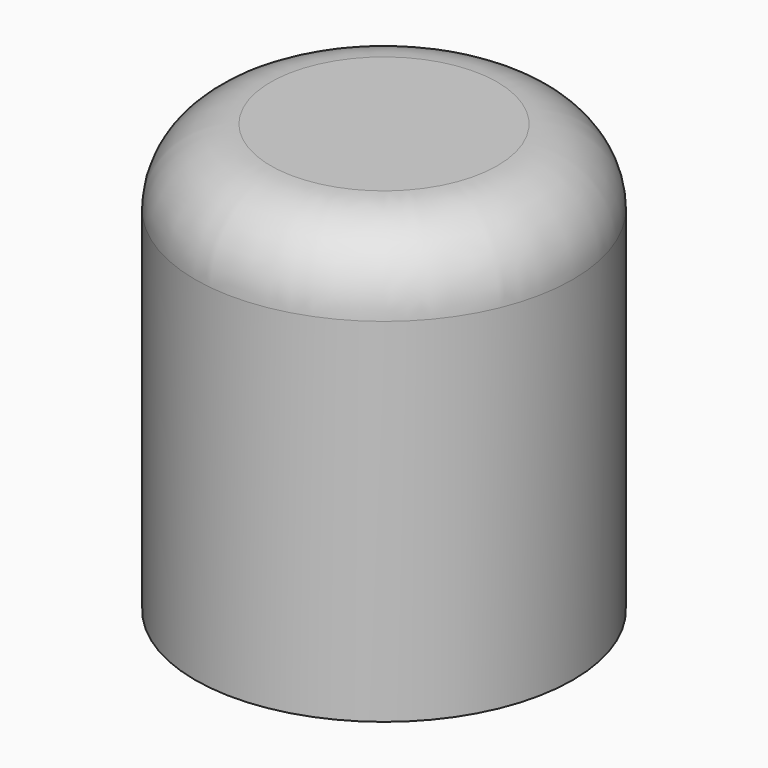
from build123d import *

# Parameters (mm, degrees)
F0_R     = 7.5
F0_R_2   = 6.5
F1_DEPTH = 13
F2_DEPTH = 12
F3_DEPTH = 4
F4_DEPTH = 4
F5_R     = 3


with BuildPart() as f1:
    # F0 (on Top) → F1 (new body)
    with BuildSketch(Plane.XY):
        Circle(F0_R)
        Circle(F0_R_2, mode=Mode.SUBTRACT)
        Circle(F0_R_2)
        with BuildLine():
            ThreePointArc((1.95, 2.8460498942), (3.0520484924, 1.6085707942), (3.45, 0))
            ThreePointArc((3.45, 0), (3.0520484924, -1.6085707942), (1.95, -2.8460498942))
            ThreePointArc((1.95, -2.8460498942), (-3.45, 0), (1.95, 2.8460498942))
        make_face(mode=Mode.SUBTRACT)
        with BuildLine():
            Line((1.95, -2.8460498942), (1.95, 2.8460498942))
            ThreePointArc((1.95, 2.8460498942), (-3.45, 0), (1.95, -2.8460498942))
        make_face()
        with BuildLine():
            ThreePointArc((1.95, -2.8460498942), (3.0520484924, -1.6085707942), (3.45, 0))
            ThreePointArc((3.45, 0), (3.0520484924, 1.6085707942), (1.95, 2.8460498942))
            Line((1.95, 2.8460498942), (1.95, -2.8460498942))
        make_face()
    extrude(amount=F1_DEPTH)

    # F0 (on Top) → F2 (cut)
    with BuildSketch(Plane.XY):
        with BuildLine():
            Line((1.95, -2.8460498942), (1.95, 2.8460498942))
            ThreePointArc((1.95, 2.8460498942), (-3.45, 0), (1.95, -2.8460498942))
        make_face()
    extrude(amount=F2_DEPTH, mode=Mode.SUBTRACT)

    # F0 (on Top) → F3 (cut)
    with BuildSketch(Plane.XY):
        with BuildLine():
            ThreePointArc((1.95, -2.8460498942), (3.0520484924, -1.6085707942), (3.45, 0))
            ThreePointArc((3.45, 0), (3.0520484924, 1.6085707942), (1.95, 2.8460498942))
            Line((1.95, 2.8460498942), (1.95, -2.8460498942))
        make_face()
    extrude(amount=F3_DEPTH, mode=Mode.SUBTRACT)

    # F0 (on Top) → F4 (join)
    with BuildSketch(Plane.XY):
        Circle(F0_R)
        Circle(F0_R_2, mode=Mode.SUBTRACT)
    extrude(amount=-F4_DEPTH)

    # F5
    f5_edges = [f1.edges().sort_by_distance(p)[0] for p in [
        (-7.5, 0, 13),
    ]]
    fillet(f5_edges, radius=F5_R)


solid = f1.part
